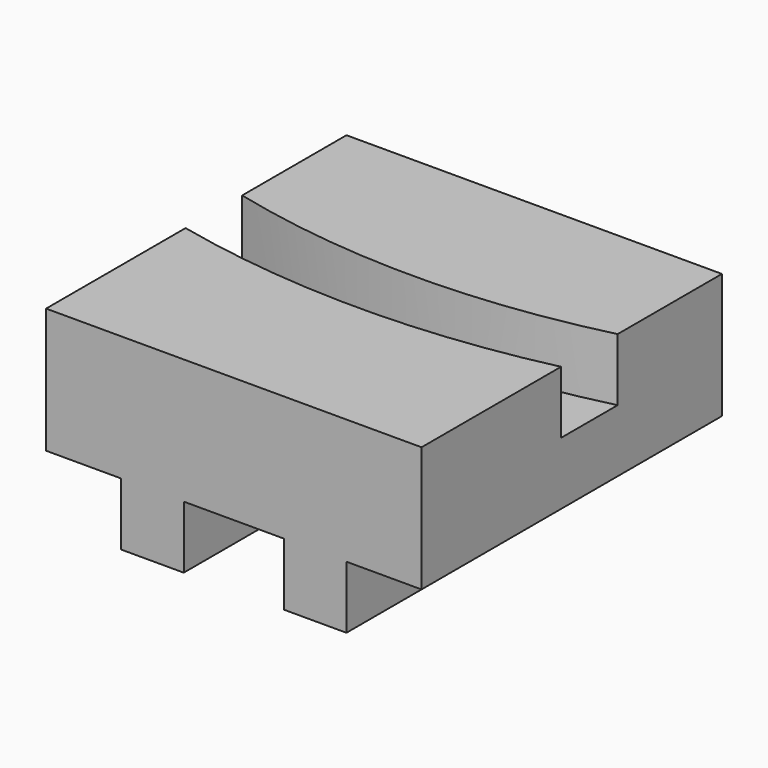
from build123d import *

# Parameters (mm, degrees)
F0_W     = 30
F0_H     = 30
F1_DEPTH = 5
F3_DEPTH = 5
F4_W     = 5
F4_H     = 30
F5_DEPTH = 5


with BuildPart() as f1:
    # F0 (on Top) → F1 (new body)
    with BuildSketch(Plane.XY):
        with Locations((15, 15)):
            Rectangle(F0_W, F0_H)
    extrude(amount=F1_DEPTH)

    # F2 (on face) → F3 (join)
    with BuildSketch(Plane.XY.offset(5)):
        with BuildLine():
            Line((0, 30), (0, 19.584253))
            ThreePointArc((0, 19.584253), (15, 17.75), (30, 19.584253))
            Line((30, 19.584253), (30, 30))
            Line((30, 30), (0, 30))
        make_face()
        with BuildLine():
            Line((30, 0), (30, 13.93138))
            ThreePointArc((30, 13.93138), (15, 12.25), (0, 13.93138))
            Line((0, 13.93138), (0, 0))
            Line((0, 0), (30, 0))
        make_face()
    extrude(amount=F3_DEPTH)

    # F4 (on face) → F5 (join)
    with BuildSketch(Plane(origin=(0, 0, 0), x_dir=(1, 0, 0), z_dir=(0, 0, -1))):
        with Locations((8.5, -15)):
            Rectangle(F4_W, F4_H)
        with Locations((21.5, -15)):
            Rectangle(F4_W, F4_H)
    extrude(amount=F5_DEPTH)


solid = f1.part
